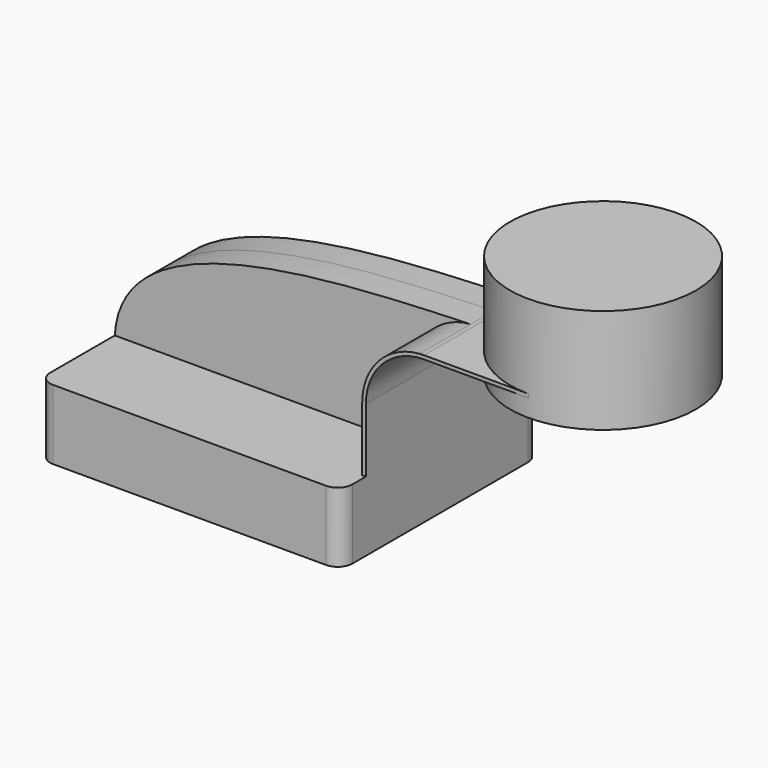
from build123d import *

# Parameters (mm, degrees)
F1_DEPTH = 34
F0_W     = 25.4
F0_H     = 1
F2_DEPTH = 25.4
F3_DEPTH = 7.9375
F5_R     = 4
F6_DEPTH = 16


with BuildPart() as f1:
    # F0 (on Front) → F1 (new body, symmetric)
    with BuildSketch(Plane.XZ):
        Polygon((40.275, 9.525), (-41.275, 9.525), (-41.275, -9.525), (41.275, -9.525), (41.275, 9.525), align=None)
    extrude(amount=F1_DEPTH, both=True)

    # F0 (on Front) → F2 (join, symmetric)
    with BuildSketch(Plane.XZ):
        with BuildLine():
            Line((40.275, 27.0002), (40.275, 9.525))
            Line((40.275, 9.525), (41.275, 9.525))
            Line((41.275, 9.525), (41.275, 27.0002))
            ThreePointArc((41.275, 27.0002), (45.9246798487, 38.2255201513), (57.15, 42.8752))
            Line((57.15, 42.8752), (60.325, 42.8752))
            Line((60.325, 42.8752), (60.325, 43.8752))
            Line((60.325, 43.8752), (57.15, 43.8752))
            add(Edge.make_bspline(
                [(55.9712612806, 43.8339815131), (56.3656474087, 43.8478093746), (56.7585819078, 43.8615403645), (57.15, 43.8752)],
                knots=[103.2345242702, 103.2345242702, 103.2345242702, 103.2345242702, 104.2469033835, 104.2469033835, 104.2469033835, 104.2469033835], degree=3))
            ThreePointArc((55.9712612806, 43.8339815131), (44.8078599731, 38.5083364502), (40.275, 27.0002))
        make_face()
        with Locations((73.025, 43.3752)):
            Rectangle(F0_W, F0_H)
    extrude(amount=F2_DEPTH, both=True)

    # F0 (on Front) → F3 (join, symmetric)
    with BuildSketch(Plane.XZ):
        with BuildLine():
            add(Edge.make_bspline(
                [(-41.275, 9.525), (-39.5560968864, 40.0065637522), (15.7548405948, 42.4239240696), (55.9712612806, 43.8339815131)],
                knots=[0, 0, 0, 0, 103.2345242702, 103.2345242702, 103.2345242702, 103.2345242702], degree=3))
            Line((-41.275, 9.525), (40.275, 9.525))
            Line((40.275, 9.525), (40.275, 27.0002))
            ThreePointArc((40.275, 27.0002), (44.8078599731, 38.5083364502), (55.9712612806, 43.8339815131))
        make_face()
    extrude(amount=F3_DEPTH, both=True)

    # F0 (on Front) → F4 (revolve)
    with BuildSketch(Plane.XZ):
        Polygon((85.725, 66.675), (85.725, 43.8752), (85.725, 42.8752), (85.725, 38.1), (111.125, 38.1), (111.125, 66.675), align=None)
    revolve(axis=Axis((85.725, 0, 52.3875), (0, 0, 1)))

    # F5
    f5_edges = [f1.edges().sort_by_distance(p)[0] for p in [
        (41.275, -34, 0),
        (-41.275, -34, 0),
        (41.275, 34, 0),
        (-41.275, 34, 0),
    ]]
    fillet(f5_edges, radius=F5_R)

    # F6 (add): a face of the model
    f6_faces = [f1.faces().sort_by_distance(p)[0] for p in [
        (85.725, 0, 66.675),
    ]]
    extrude(f6_faces, amount=-F6_DEPTH)


solid = f1.part
